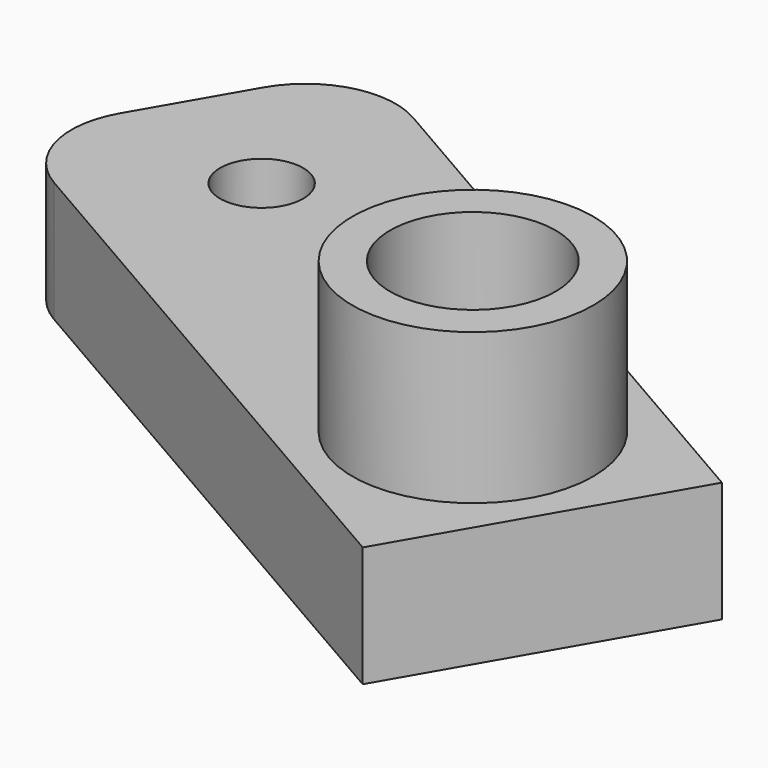
from build123d import *

# Parameters (mm, degrees)
CYLINDER081_R          = 2.75
CYLINDER081_DEPTH      = 7
CYLINDER078_R          = 4
CYLINDER078_DEPTH      = 9
CYLINDER071_R          = 1.38
CYLINDER071_DEPTH      = 10
CYLINDER069_R          = 2.75
CYLINDER069_DEPTH      = 10
BOX039_W               = 25
BOX039_H               = 10
BOX039_DEPTH           = 4
CUT049_PLACEMENT_ANGLE = 30
FILLET006_R            = 3


with BuildPart() as cilindro002:
    # Cylinder081 → Cylinder081 (new body)
    with BuildSketch(Plane(origin=(17, 17, 12), x_dir=(1, 0, 0), z_dir=(0, 0, 1))):
        Circle(CYLINDER081_R)
    extrude(amount=CYLINDER081_DEPTH)


with BuildPart() as obj1:
    # Cylinder078 → Cylinder078 (new body)
    with BuildSketch(Plane(origin=(17, 17, 10), x_dir=(1, 0, 0), z_dir=(0, 0, 1))):
        Circle(CYLINDER078_R)
    extrude(amount=CYLINDER078_DEPTH)

    # Cut053: cut Cilindro002
    add(cilindro002.part, mode=Mode.SUBTRACT)


with BuildPart() as obj1_1:
    # Cut053 placement: moved
    add(obj1.part.moved(Location((21, 102, 52))))


with BuildPart() as cylinder071:
    # Cylinder071 → Cylinder071 (new body)
    with BuildSketch(Plane(origin=(25, 52, 59), x_dir=(1, 0, 0), z_dir=(0, 0, 1))):
        Circle(CYLINDER071_R)
    extrude(amount=CYLINDER071_DEPTH)


with BuildPart() as cylinder069:
    # Cylinder069 → Cylinder069 (new body)
    with BuildSketch(Plane(origin=(40, 52, 59), x_dir=(1, 0, 0), z_dir=(0, 0, 1))):
        Circle(CYLINDER069_R)
    extrude(amount=CYLINDER069_DEPTH)


with BuildPart() as fusion009:
    # Box039 → Box039 (new body)
    with BuildSketch(Plane(origin=(45, 57, 62), x_dir=(-1, 0, 0), z_dir=(0, 0, 1))):
        with Locations((12.5, 5)):
            Rectangle(BOX039_W, BOX039_H)
    extrude(amount=BOX039_DEPTH)

    # Cut046: cut Cylinder069
    add(cylinder069.part, mode=Mode.SUBTRACT)

    # Cut049: cut Cylinder071
    add(cylinder071.part, mode=Mode.SUBTRACT)


with BuildPart() as fusion009_1:
    # Cut049 placement: moved
    add(fusion009.part.moved(Location((-20.65, 26.95, 0))).rotate(Axis((-20.65, 26.95, 0), (0, 0, -1)), CUT049_PLACEMENT_ANGLE))

    # Fillet006
    fillet006_edges = [fusion009_1.edges().sort_by_distance(p)[0] for p in [
        (25.170508, 66.313448, 64),
        (20.170508, 57.653194, 64),
    ]]
    fillet(fillet006_edges, radius=FILLET006_R)


with BuildPart() as fusion009_2:
    # Fillet006 placement: moved
    add(fusion009_1.part.moved(Location((-2, 67, 0))))

    # Fusion009: union obj1
    add(obj1_1.part)


solid = fusion009_2.part
